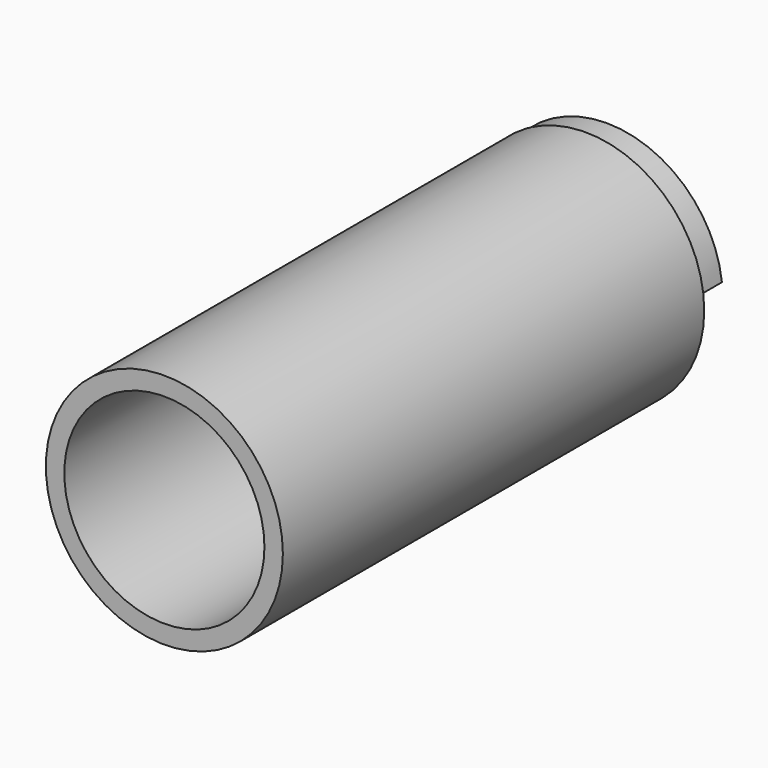
from build123d import *

# Parameters (mm, degrees)
F0_R     = 45
F0_R_2   = 38
F1_DEPTH = 200
F3_DEPTH = 10
F5_DEPTH = 10
F7_DEPTH = 3.5


with BuildPart() as f1:
    # F0 (on Front) → F1 (new body)
    with BuildSketch(Plane.XZ):
        Circle(F0_R)
        Circle(F0_R_2, mode=Mode.SUBTRACT)
    extrude(amount=F1_DEPTH)


with BuildPart() as f3:
    # F2 (on Right) → F3 (new body)
    with BuildSketch(Plane.YZ):
        with BuildLine():
            ThreePointArc((37.5, 0), (40, -2.5), (42.5, 0))
            ThreePointArc((42.5, 0), (40, 2.5), (37.5, 0))
        make_face()
    extrude(amount=F3_DEPTH)

    # F6 (on Right) → F7 (join, symmetric)
    with BuildSketch(Plane.YZ):
        Polygon((36.5, 0), (36.5, -3.5), (43.5, -3.5), (43.5, 3.5), (36.5, 3.5), align=None)
    extrude(amount=F7_DEPTH, both=True)


with BuildPart() as f5:
    # F4 (on face) → F5 (new body)
    with BuildSketch(Plane(origin=(0, 0, 0), x_dir=(-1, 0, 0), z_dir=(0, 1, 0))):
        with BuildLine():
            ThreePointArc((-37.669616, 5), (0, 38), (37.669616, 5))
            Line((37.669616, 5), (43.714986, 5))
            ThreePointArc((43.714986, 5), (0, 44), (-43.714986, 5))
            Line((-43.714986, 5), (-37.669616, 5))
        make_face()
        with BuildLine():
            Line((-37.669616, 5), (0, 5))
            Line((0, 5), (37.669616, 5))
            ThreePointArc((37.669616, 5), (0, 38), (-37.669616, 5))
        make_face()
    extrude(amount=F5_DEPTH)


solid = Compound([f1.part, f3.part, f5.part])
